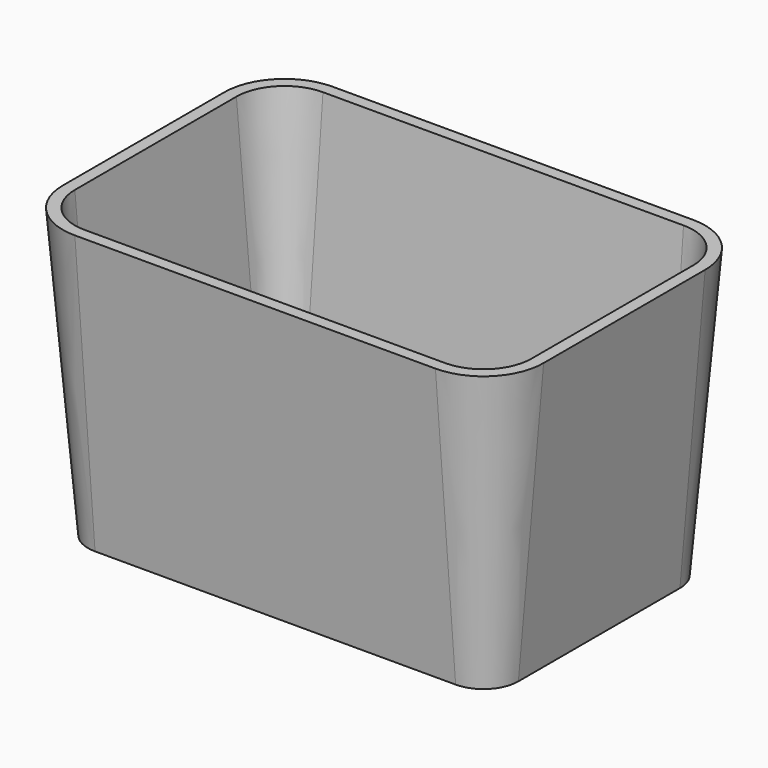
from build123d import *


with BuildPart() as f2:
    # F2: sweep along a path in F0
    with BuildLine(Plane.XY) as f2_path:
        Line((-47.5, 21), (-47.5, -21))
        ThreePointArc((-47.5, -21), (-44.571068, -28.071068), (-37.5, -31))
        Line((-37.5, -31), (37.5, -31))
        ThreePointArc((37.5, -31), (44.571068, -28.071068), (47.5, -21))
        Line((47.5, -21), (47.5, 21))
        ThreePointArc((47.5, 21), (44.571068, 28.071068), (37.5, 31))
        Line((37.5, 31), (-37.5, 31))
        ThreePointArc((-37.5, 31), (-44.571068, 28.071068), (-47.5, 21))
    # F1 (on Front) → F2 (sweep)
    with BuildSketch(Plane.XZ):
        Polygon((-44.75068, -60), (-42.25068, -60), (-47.5, 0), (-50, 0), align=None)
    sweep(path=f2_path.line)


solid = f2.part
